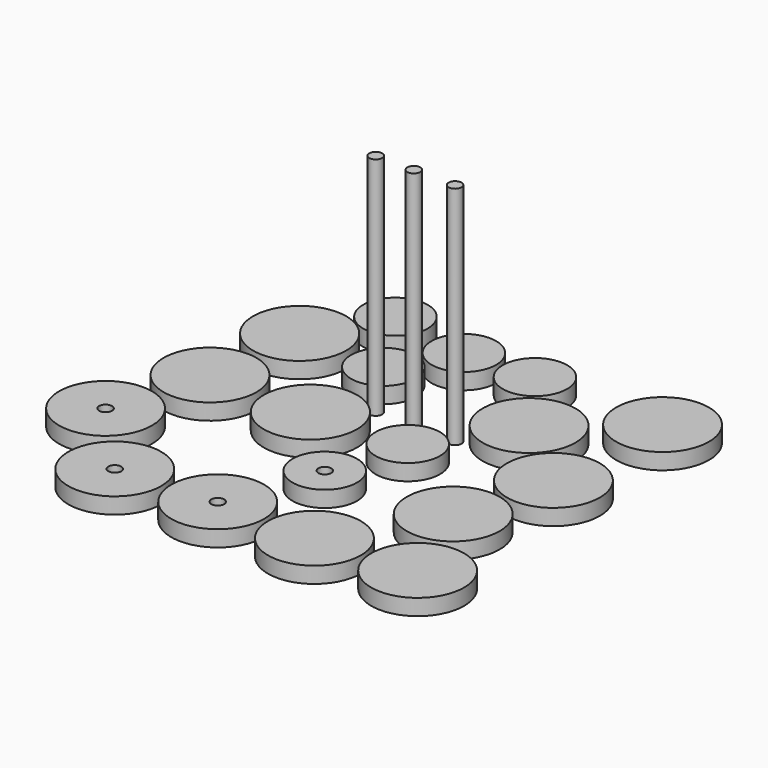
from build123d import *

# Parameters (mm, degrees)
F0_R      = 2.54
F1_DEPTH  = 88.9
F5_R      = 12.7
F5_R_2    = 18.3388
F5_R_3    = 18.288
F6_DEPTH  = 6.35
F9_R      = 2.54
F10_DEPTH = 25.4
F7_R      = 2.54
F11_DEPTH = 25.4
F8_R      = 2.54
F12_DEPTH = 25.4
F13_R     = 2.54
F14_DEPTH = 25.4


with BuildPart() as f1:
    # F0 (on Top) → F1 (new body)
    with BuildSketch(Plane.XY):
        with Locations((-40.835209, 25.533181)):
            Circle(F0_R)
    extrude(amount=F1_DEPTH)


with BuildPart() as f1_1:
    # F2: moved
    add(f1.part.moved(Location((21.082, 0, 0))))


with BuildPart() as f3_1:
    # F3: copy of F1
    add(f1_1.part.moved(Location((14.986, 0, 0))))


with BuildPart() as f4_1:
    # F4: copy of F3_1
    add(f3_1.part.moved(Location((16.256, 0, 0))))


with BuildPart() as f6:
    # F5 (on Top) → F6 (new body)
    with BuildSketch(Plane.XY):
        with Locations((-47.102664, 69.409594)):
            Circle(F5_R)
        with Locations((-63.141532, 42.309437)):
            Circle(F5_R_2)
        with Locations((-27.822684, 3.45731)):
            Circle(F5_R_2)
        with Locations((-67.357749, 3.45731)):
            Circle(F5_R_3)
        with Locations((-51.158015, -63.655876)):
            Circle(F5_R_3)
        with Locations((-12.780074, -60.955919)):
            Circle(F5_R_3)
        with Locations((-78.543283, -33.95636)):
            Circle(F5_R_3)
        with Locations((8.819573, 5.578703)):
            Circle(F5_R)
        with Locations((-15.577984, 63.694596)):
            Circle(F5_R)
        with Locations((11.522177, 64.800732)):
            Circle(F5_R)
        with Locations((61.922893, 64.603321)):
            Circle(F5_R_3)
        with Locations((-29.126406, 40.980961)):
            Circle(F5_R)
        with Locations((30.273516, 38.458187)):
            Circle(F5_R_3)
        with Locations((58.941431, 14.60648)):
            Circle(F5_R_3)
        with Locations((48.850328, -22.088453)):
            Circle(F5_R_3)
        with Locations((0, -24.24266)):
            Circle(F5_R)
        with Locations((25.59787, -61.341628)):
            Circle(F5_R_3)
        with Locations((63.782953, -58.255963)):
            Circle(F5_R_3)
    extrude(amount=F6_DEPTH)

    # F9 (on face) → F10 (cut)
    with BuildSketch(Plane.XY.offset(6.35)):
        with Locations((-78.543283, -33.95636)):
            Circle(F9_R)
    extrude(amount=-F10_DEPTH, mode=Mode.SUBTRACT)

    # F7 (on face) → F11 (cut)
    with BuildSketch(Plane.XY.offset(6.35)):
        with Locations((-51.158015, -63.655876)):
            Circle(F7_R)
    extrude(amount=-F11_DEPTH, mode=Mode.SUBTRACT)

    # F8 (on face) → F12 (cut)
    with BuildSketch(Plane.XY.offset(6.35)):
        with Locations((-12.780074, -60.955919)):
            Circle(F8_R)
    extrude(amount=-F12_DEPTH, mode=Mode.SUBTRACT)

    # F13 (on face) → F14 (cut)
    with BuildSketch(Plane.XY.offset(6.35)):
        with Locations((0, -24.24266)):
            Circle(F13_R)
    extrude(amount=-F14_DEPTH, mode=Mode.SUBTRACT)


solid = Compound([f1_1.part, f3_1.part, f4_1.part, f6.part])
